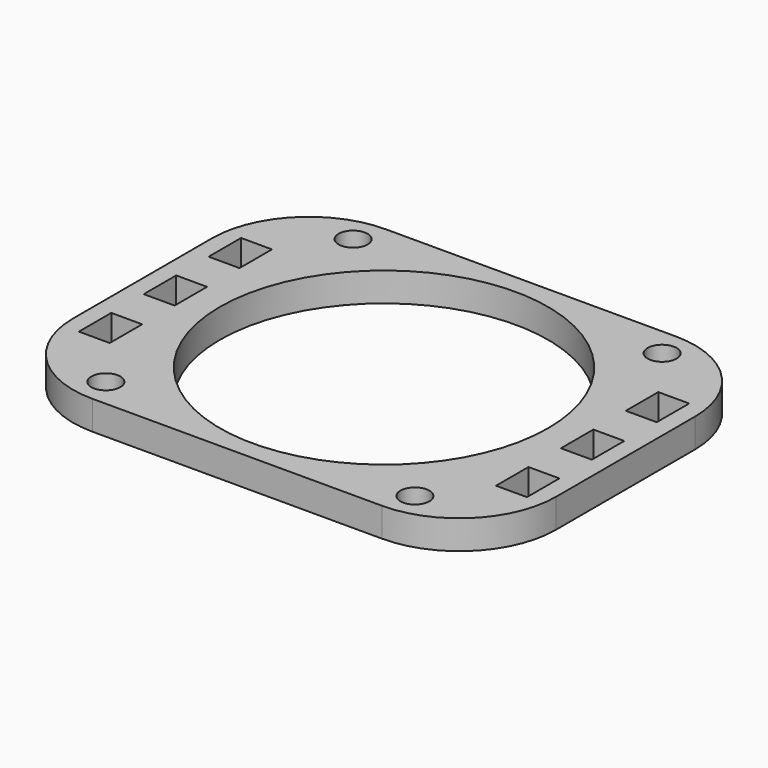
from build123d import *

# Parameters (mm, degrees)
F0_R     = 1.5
F0_W     = 3.2
F0_H     = 4.2
F0_R_2   = 17
F1_DEPTH = 1.5


with BuildPart() as f1:
    # F0 (on Top) → F1 (new body, symmetric)
    with BuildSketch(Plane.XY):
        with BuildLine():
            Line((15, 19), (-15, 19))
            ThreePointArc((-15, 19), (-22.071068, 16.071068), (-25, 9))
            Line((-25, 9), (-25, -9))
            ThreePointArc((-25, -9), (-22.071068, -16.071068), (-15, -19))
            Line((-15, -19), (15, -19))
            ThreePointArc((15, -19), (22.071068, -16.071068), (25, -9))
            Line((25, -9), (25, 9))
            ThreePointArc((25, 9), (22.071068, 16.071068), (15, 19))
        make_face()
        with Locations((-16, -16)):
            Circle(F0_R, mode=Mode.SUBTRACT)
        with Locations((-21.6, -8.4)):
            Rectangle(F0_W, F0_H, mode=Mode.SUBTRACT)
        with Locations((16, -16)):
            Circle(F0_R, mode=Mode.SUBTRACT)
        with Locations((21.6, -8.4)):
            Rectangle(F0_W, F0_H, mode=Mode.SUBTRACT)
        Polygon((-23.2, 0), (-23.2, 2.1), (-20, 2.1), (-20, -2.1), (-23.2, -2.1), align=None, mode=Mode.SUBTRACT)
        with Locations((-21.6, 8.4)):
            Rectangle(F0_W, F0_H, mode=Mode.SUBTRACT)
        with Locations((-16, 16)):
            Circle(F0_R, mode=Mode.SUBTRACT)
        Circle(F0_R_2, mode=Mode.SUBTRACT)
        Polygon((20, 2.1), (23.2, 2.1), (23.2, 0), (23.2, -2.1), (20, -2.1), align=None, mode=Mode.SUBTRACT)
        with Locations((21.6, 8.4)):
            Rectangle(F0_W, F0_H, mode=Mode.SUBTRACT)
        with Locations((16, 16)):
            Circle(F0_R, mode=Mode.SUBTRACT)
    extrude(amount=F1_DEPTH, both=True)


solid = f1.part
